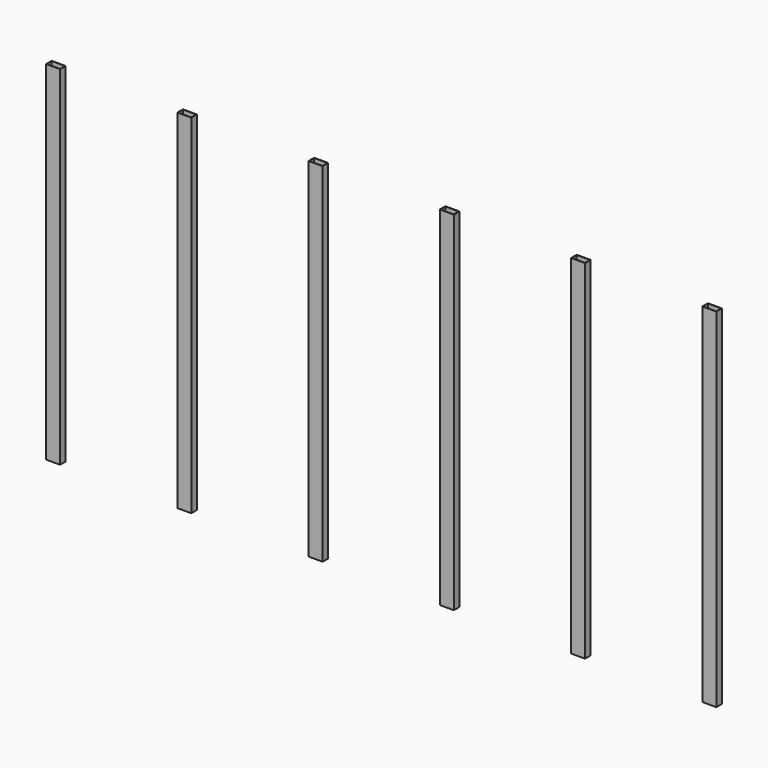
from build123d import *

# Parameters (mm, degrees)
F0_W     = 80
F0_H     = 40
F0_W_2   = 76
F0_H_2   = 36
F1_DEPTH = 1990


with BuildPart() as f1:
    # F0 (on Top) → F1 (new body)
    with BuildSketch(Plane.XY):
        Rectangle(F0_W, F0_H)
        Rectangle(F0_W_2, F0_H_2, mode=Mode.SUBTRACT)
        with Locations((750, 0)):
            Rectangle(F0_W, F0_H)
        with Locations((750, 0)):
            Rectangle(F0_W_2, F0_H_2, mode=Mode.SUBTRACT)
        with Locations((1500, 0)):
            Rectangle(F0_W, F0_H)
        with Locations((1500, 0)):
            Rectangle(F0_W_2, F0_H_2, mode=Mode.SUBTRACT)
        with Locations((2250, 0)):
            Rectangle(F0_W, F0_H)
        with Locations((2250, 0)):
            Rectangle(F0_W_2, F0_H_2, mode=Mode.SUBTRACT)
        with Locations((3000, 0)):
            Rectangle(F0_W, F0_H)
        with Locations((3000, 0)):
            Rectangle(F0_W_2, F0_H_2, mode=Mode.SUBTRACT)
        with Locations((3750, 0)):
            Rectangle(F0_W, F0_H)
        with Locations((3750, 0)):
            Rectangle(F0_W_2, F0_H_2, mode=Mode.SUBTRACT)
    extrude(amount=F1_DEPTH)


solid = f1.part
